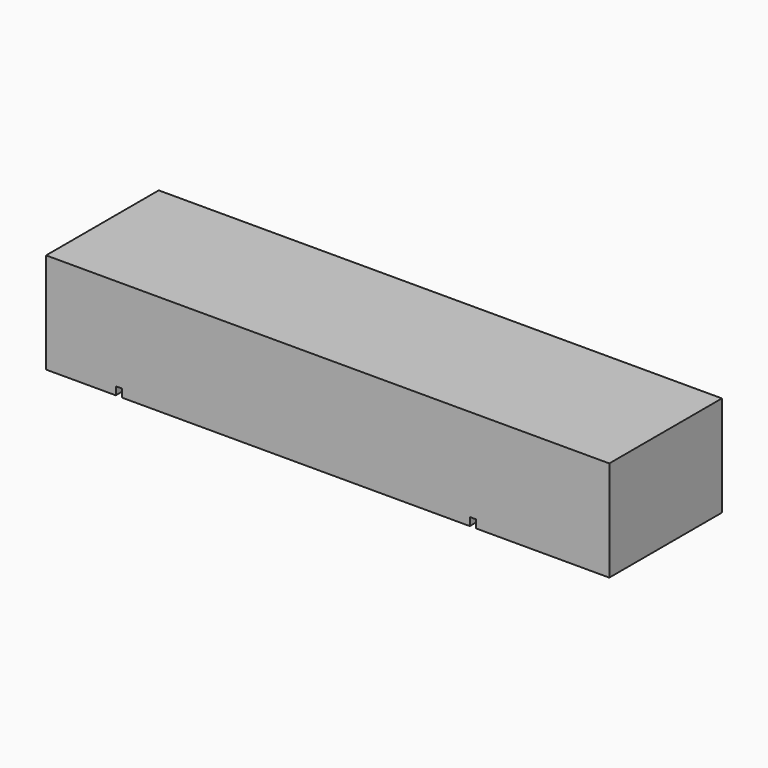
from build123d import *

# Parameters (mm, degrees)
F0_W     = 177.8
F0_H     = 44.45
F1_DEPTH = 31.75
F2_W     = 2.032
F2_H     = 5.08
F2_H_2   = 2.957623
F3_DEPTH = 70.866


with BuildPart() as f1:
    # F0 (on Top) → F1 (new body)
    with BuildSketch(Plane.XY):
        Rectangle(F0_W, F0_H)
    extrude(amount=F1_DEPTH)

    # F2 (on Front) → F3 (cut, symmetric)
    with BuildSketch(Plane.XZ):
        with Locations((-65.8876, 0)):
            Rectangle(F2_W, F2_H)
        with Locations((45.8724, 1.061189)):
            Rectangle(F2_W, F2_H_2)
    extrude(amount=F3_DEPTH, both=True, mode=Mode.SUBTRACT)


solid = f1.part
